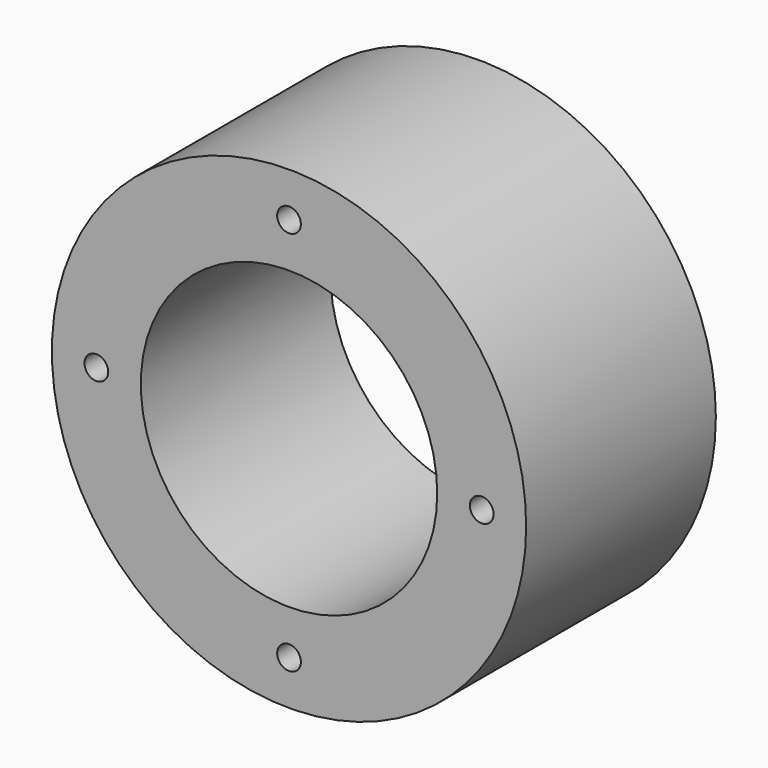
from build123d import *

# Parameters (mm, degrees)
F0_R     = 50.8
F0_R_2   = 2.54
F0_R_3   = 31.75
F1_DEPTH = 25.4


with BuildPart() as f1:
    # F0 (on Front) → F1 (new body, symmetric)
    with BuildSketch(Plane.XZ):
        Circle(F0_R)
        with Locations((0, -41.275)):
            Circle(F0_R_2, mode=Mode.SUBTRACT)
        with Locations((-41.275, 0)):
            Circle(F0_R_2, mode=Mode.SUBTRACT)
        Circle(F0_R_3, mode=Mode.SUBTRACT)
        with Locations((41.275, 0)):
            Circle(F0_R_2, mode=Mode.SUBTRACT)
        with Locations((0, 41.275)):
            Circle(F0_R_2, mode=Mode.SUBTRACT)
    extrude(amount=F1_DEPTH, both=True)


solid = f1.part
